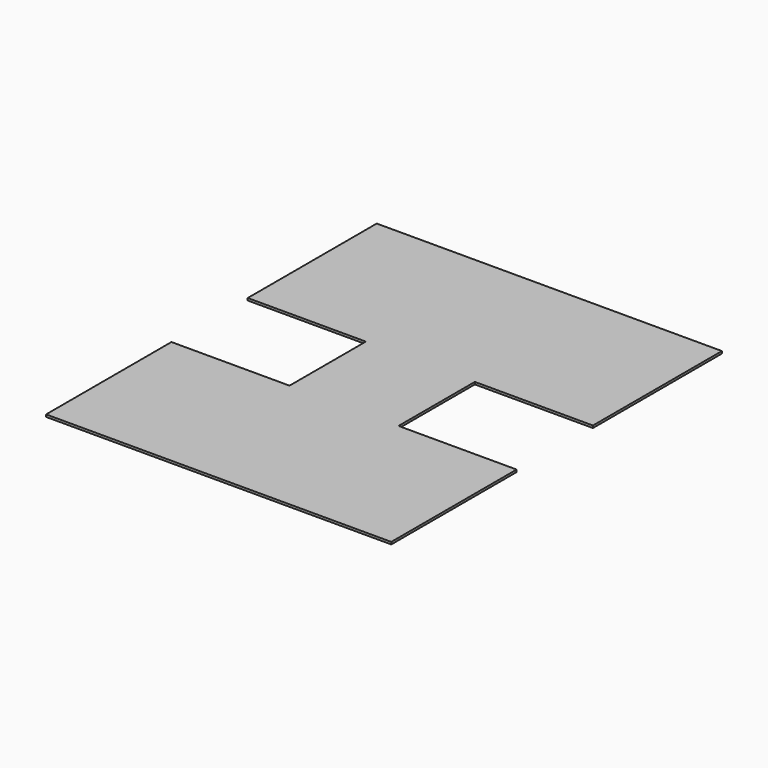
from build123d import *

# Parameters (mm, degrees)
F0_W     = 152.4
F0_H     = 133.35
F1_DEPTH = 3.175
F3_DEPTH = 3.175


with BuildPart() as f1:
    # F0 (on Top) → F1 (new body)
    with BuildSketch(Plane.XY):
        Rectangle(F0_W, F0_H)
    extrude(amount=F1_DEPTH)

    # F2 (on face) → F3 (join)
    with BuildSketch(Plane.XY.offset(3.175)):
        Polygon((-241.3, 292.1), (-241.3, 66.675), (-76.2, 66.675), (76.2, 66.675), (241.3, 66.675), (241.3, 292.1), align=None)
        Polygon((76.2, -66.675), (-76.2, -66.675), (-241.3, -66.675), (-241.3, -285.75), (241.3, -285.75), (241.3, -66.675), align=None)
    extrude(amount=-F3_DEPTH)


with BuildPart() as f4_1:
    # F4: copy of F1
    add(f1.part)


solid = f1.part
